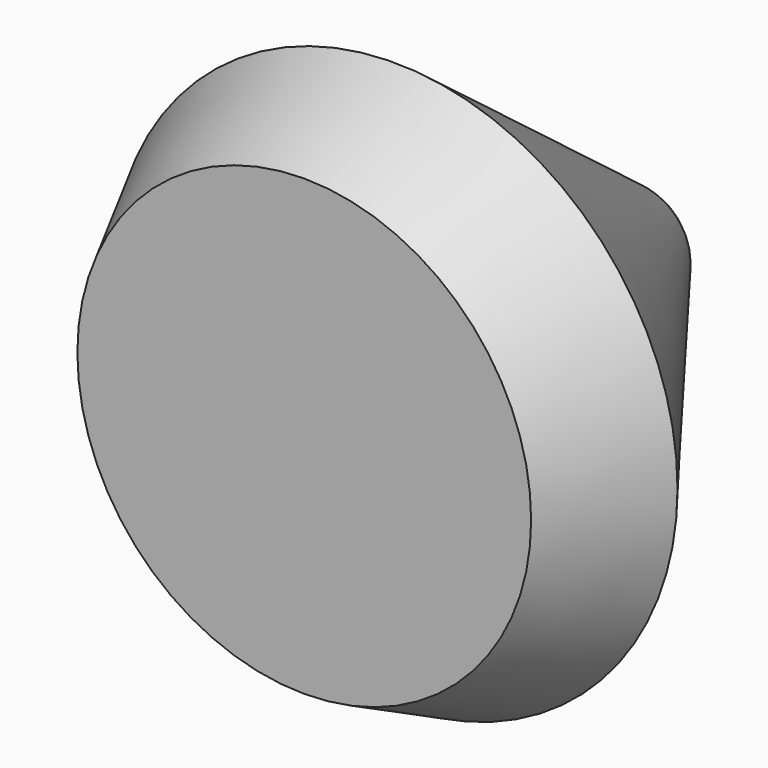
from build123d import *

# Parameters (mm, degrees)
F2_SIZE = 10


with BuildPart() as f1:
    # F0 (on Top) → F1 (revolve)
    with BuildSketch(Plane.XY):
        with BuildLine():
            Line((0, 31.209486), (0, 0))
            Line((0, 0), (26.040155, 0))
            Line((26.040155, 0), (3.935258, 29.225933))
            ThreePointArc((3.935258, 29.225933), (2.197948, 30.674648), (0, 31.209486))
        make_face()
    revolve(axis=Axis((0, 15.60483, 0), (0, 1, 0)))

    # F2
    f2_edges = [f1.edges().sort_by_distance(p)[0] for p in [
        (-26.040155, 0, 0),
    ]]
    chamfer(f2_edges, length=F2_SIZE)


solid = f1.part
